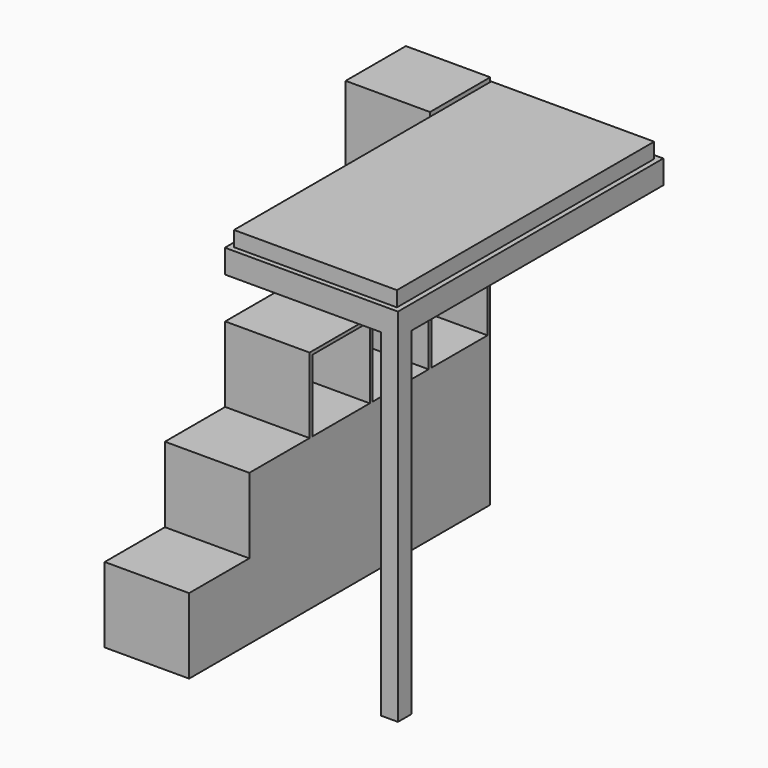
from build123d import *

# Parameters (mm, degrees)
F0_W      = 965.2
F0_H      = 1905
F1_DEPTH  = 100
F2_W      = 1025.2
F2_H      = 1965
F2_W_2    = 965.2
F2_H_2    = 1905
F3_DEPTH  = 110
F4_W      = 1025.2
F4_H      = 1965
F5_DEPTH  = 30
F7_DEPTH  = 500
F8_W      = 100
F8_H      = 100
F9_DEPTH  = 2000
F10_W     = 416
F10_H     = 426
F10_W_2   = 426
F11_DEPTH = 470


with BuildPart() as f1:
    # F0 (on Top) → F1 (new body, symmetric)
    with BuildSketch(Plane.XY):
        Rectangle(F0_W, F0_H)
    extrude(amount=F1_DEPTH, both=True)


with BuildPart() as f3:
    # F2 (on face) → F3 (new body)
    with BuildSketch(Plane(origin=(0, 0, -100), x_dir=(1, 0, 0), z_dir=(0, 0, -1))):
        Rectangle(F2_W, F2_H)
        Rectangle(F2_W_2, F2_H_2, mode=Mode.SUBTRACT)
    extrude(amount=-F3_DEPTH)



with BuildPart() as f5:
    # F4 (on face) → F5 (new body)
    with BuildSketch(Plane(origin=(0, 0, -100), x_dir=(1, 0, 0), z_dir=(0, 0, -1))):
        Rectangle(F4_W, F4_H)
    extrude(amount=F5_DEPTH)


with BuildPart() as f3_1:
    add(f3.part)

    add(f5.part)  # F7 merges F5
    # F6 (on face) → F7 (join)
    with BuildSketch(Plane(origin=(-512.6, 0, 0), x_dir=(0, -1, 0), z_dir=(-1, 0, 0))):
        Polygon((-536.5, 100), (-982.5, 100), (-982.5, -2130), (1247.5, -2130), (1247.5, -1684), (801.5, -1684), (801.5, -1238), (355.5, -1238), (355.5, -792), (-90.5, -792), (-90.5, -346), (-536.5, -346), align=None)
    extrude(amount=F7_DEPTH)

    # F8 (on face) → F9 (join, through all)
    with BuildSketch(Plane(origin=(0, 0, -130), x_dir=(1, 0, 0), z_dir=(0, 0, -1))):
        with Locations((462.6, 932.5)):
            Rectangle(F8_W, F8_H)
    extrude(amount=F9_DEPTH)

    # F10 (on face) → F11 (cut)
    with BuildSketch(Plane.YZ.offset(-512.6)):
        with Locations((318.5, -579)):
            Rectangle(F10_W, F10_H)
        with Locations((-122.5, -1025)):
            Rectangle(F10_W_2, F10_H)
        with Locations((318.5, -1025)):
            Rectangle(F10_W, F10_H)
        with Locations((754.5, -579)):
            Rectangle(F10_W, F10_H)
        with Locations((754.5, -1025)):
            Rectangle(F10_W, F10_H)
    extrude(amount=-F11_DEPTH, mode=Mode.SUBTRACT)


solid = Compound([f1.part, f3_1.part])
